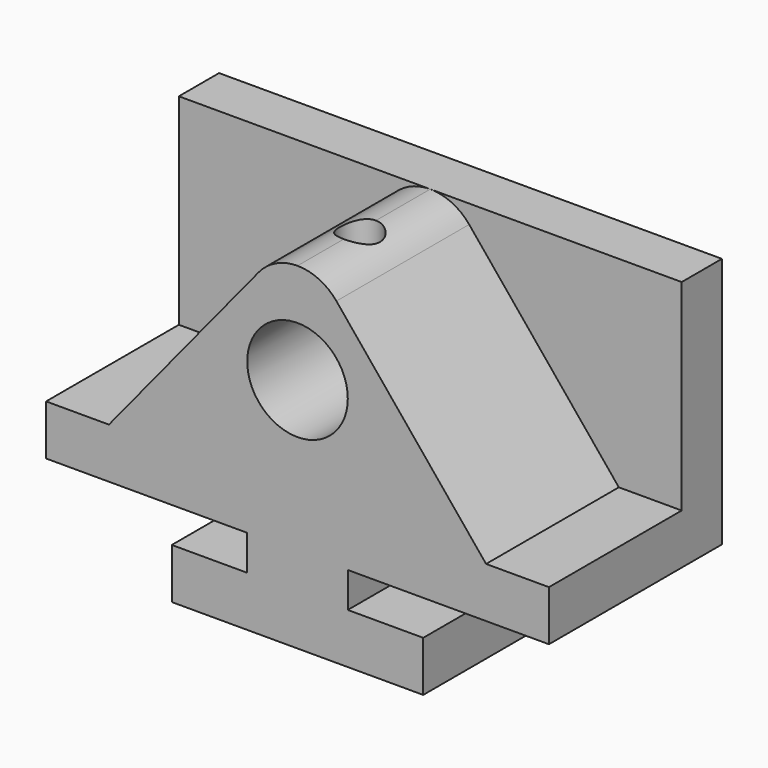
from build123d import *

# Parameters (mm, degrees)
F0_R     = 12.7
F1_DEPTH = 54.61
F2_DEPTH = 12.7
F3_DEPTH = 12.7
F4_R     = 5.08
F5_DEPTH = 19.05


with BuildPart() as f1:
    # F0 (on Front) → F1 (new body)
    with BuildSketch(Plane.XZ):
        with BuildLine():
            Line((-31.75, 0), (0, 0))
            Line((0, 0), (31.75, 0))
            Line((31.75, 0), (31.75, 12.7))
            Line((31.75, 12.7), (12.7, 12.7))
            Line((12.7, 12.7), (12.7, 21.59))
            Line((12.7, 21.59), (63.5, 21.59))
            Line((63.5, 21.59), (63.5, 34.29))
            Line((63.5, 34.29), (47.625, 34.29))
            Line((47.625, 34.29), (9.824759, 80.437615))
            ThreePointArc((9.824759, 80.437615), (5.435314, 83.868125), (0, 85.09))
            ThreePointArc((0, 85.09), (-5.435314, 83.868125), (-9.824759, 80.437615))
            Line((-9.824759, 80.437615), (-47.625, 34.29))
            Line((-47.625, 34.29), (-63.5, 34.29))
            Line((-63.5, 34.29), (-63.5, 21.59))
            Line((-63.5, 21.59), (-12.7, 21.59))
            Line((-12.7, 21.59), (-12.7, 12.7))
            Line((-12.7, 12.7), (-31.75, 12.7))
            Line((-31.75, 12.7), (-31.75, 0))
        make_face()
        with Locations((0, 59.69)):
            Circle(F0_R, mode=Mode.SUBTRACT)
    extrude(amount=F1_DEPTH)

    # F0 (on Front) → F2 (join)
    with BuildSketch(Plane.XZ):
        with Locations((0, 59.69)):
            Circle(F0_R)
    extrude(amount=F2_DEPTH)

    # F0 (on Front) → F3 (join)
    with BuildSketch(Plane.XZ):
        with BuildLine():
            Line((-63.5, 85.09), (-63.5, 34.29))
            Line((-63.5, 34.29), (-47.625, 34.29))
            Line((-47.625, 34.29), (-9.824759, 80.437615))
            ThreePointArc((-9.824759, 80.437615), (-5.435314, 83.868125), (0, 85.09))
            Line((0, 85.09), (-63.5, 85.09))
        make_face()
        with BuildLine():
            Line((47.625, 34.29), (63.5, 34.29))
            Line((63.5, 34.29), (63.5, 85.09))
            Line((63.5, 85.09), (0, 85.09))
            ThreePointArc((0, 85.09), (5.435314, 83.868125), (9.824759, 80.437615))
            Line((9.824759, 80.437615), (47.625, 34.29))
        make_face()
    extrude(amount=F3_DEPTH)

    # F4 (on face) → F5 (cut)
    with BuildSketch(Plane.XY.offset(85.09)):
        with Locations((0, -34.925)):
            Circle(F4_R)
    extrude(amount=-F5_DEPTH, mode=Mode.SUBTRACT)


solid = f1.part
